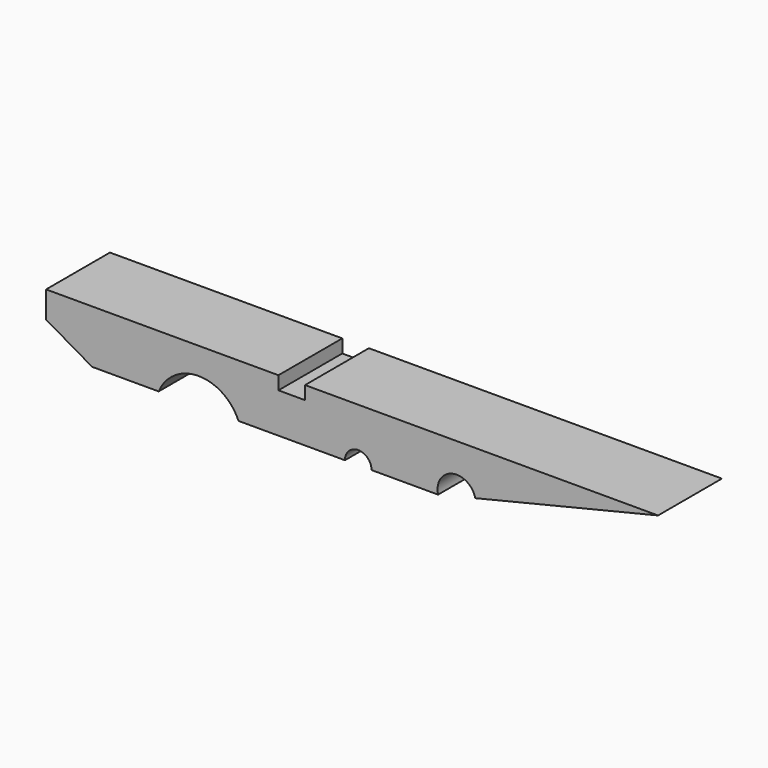
from build123d import *

# Parameters (mm, degrees)
F1_DEPTH = 9.525


with BuildPart() as f1:
    # F0 (on Front) → F1 (new body)
    with BuildSketch(Plane.XZ):
        with BuildLine():
            Line((-21.808044, -5.275321), (0, 0))
            Line((0, 0), (-42.125739, 0))
            Line((-42.125739, 0), (-42.125739, -1.5875))
            Line((-42.125739, -1.5875), (-45.300739, -1.5875))
            Line((-45.300739, -1.5875), (-45.300739, 0))
            Line((-45.300739, 0), (-73.025, 0))
            Line((-73.025, 0), (-73.025, -3.175))
            Line((-73.025, -3.175), (-67.525739, -6.35))
            Line((-67.525739, -6.35), (-59.588239, -6.35))
            ThreePointArc((-59.588239, -6.35), (-54.825739, -3.175), (-50.063239, -6.35))
            Line((-50.063239, -6.35), (-37.363239, -6.35))
            ThreePointArc((-37.363239, -6.35), (-35.775739, -4.7625), (-34.188239, -6.35))
            Line((-34.188239, -6.35), (-26.250739, -6.35))
            ThreePointArc((-26.250739, -6.35), (-24.566731, -3.591313), (-21.808044, -5.275321))
        make_face()
    extrude(amount=F1_DEPTH)


solid = f1.part
